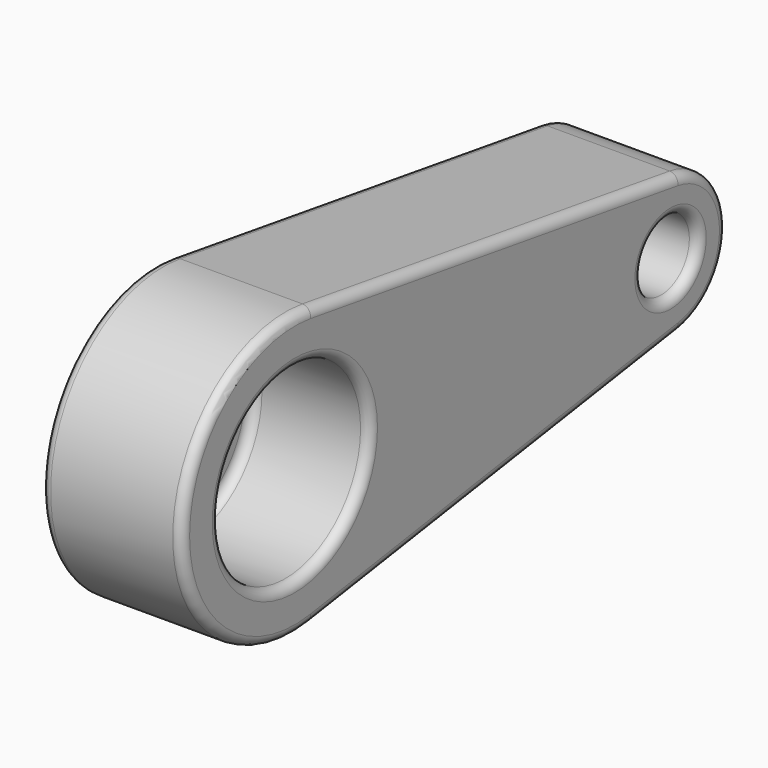
from build123d import *

# Parameters (mm, degrees)
F4_DEPTH = 38.1
F0_R     = 50.8
F0_R_2   = 19.05
F1_DEPTH = 63.5
F5_R     = 5.08
F2_R     = 5.08


with BuildPart() as f4:
    # F3 (on Right) → F4 (new body, symmetric)
    with BuildSketch(Plane.YZ):
        with BuildLine():
            ThreePointArc((11.43, 75.3378729458), (57.7815108837, 49.6763223276), (76.2, 0))
            ThreePointArc((76.2, 0), (57.7815108837, -49.6763223276), (11.43, -75.3378729458))
            Line((11.43, -75.3378729458), (259.715, -37.6689364729))
            ThreePointArc((259.715, -37.6689364729), (215.9, 0), (259.715, 37.6689364729))
            Line((259.715, 37.6689364729), (11.43, 75.3378729458))
        make_face()
        with BuildLine():
            ThreePointArc((11.43, -75.3378729458), (57.7815108837, -49.6763223276), (76.2, 0))
            ThreePointArc((76.2, 0), (57.7815108837, 49.6763223276), (11.43, 75.3378729458))
            ThreePointArc((11.43, 75.3378729458), (-76.2, 0), (11.43, -75.3378729458))
        make_face()
        with BuildLine():
            ThreePointArc((292.1, 0), (282.8907554418, 24.8381611638), (259.715, 37.6689364729))
            ThreePointArc((259.715, 37.6689364729), (215.9, 0), (259.715, -37.6689364729))
            ThreePointArc((259.715, -37.6689364729), (282.8907554418, -24.8381611638), (292.1, 0))
        make_face()
    extrude(amount=F4_DEPTH, both=True)

    # F0 (on face) → F1 (cut)
    with BuildSketch(Plane.YZ.offset(38.1)):
        Circle(F0_R)
        with Locations((254, 0)):
            Circle(F0_R_2)
    extrude(amount=-F1_DEPTH, mode=Mode.SUBTRACT)

    # F5
    f5_edges = [f4.edges().sort_by_distance(p)[0] for p in [
        (38.1, 135.5725, -56.503405),
        (38.1, -76.2, 0),
        (38.1, 292.1, 0),
        (38.1, 135.5725, 56.503405),
        (38.1, -50.8, 0),
        (38.1, 234.95, 0),
    ]]
    fillet(f5_edges, radius=F5_R)

    # F2
    f2_edges = [f4.edges().sort_by_distance(p)[0] for p in [
        (3.81, 50.8, 0),
        (33.02, -50.8, 0),
        (-25.4, -50.8, 0),
        (-38.1, 135.5725, -56.503405),
        (-38.1, 292.1, 0),
        (-38.1, 135.5725, 56.503405),
        (-38.1, -76.2, 0),
        (33.02, 234.95, 0),
        (-25.4, 234.95, 0),
    ]]
    fillet(f2_edges, radius=F2_R)


solid = f4.part
